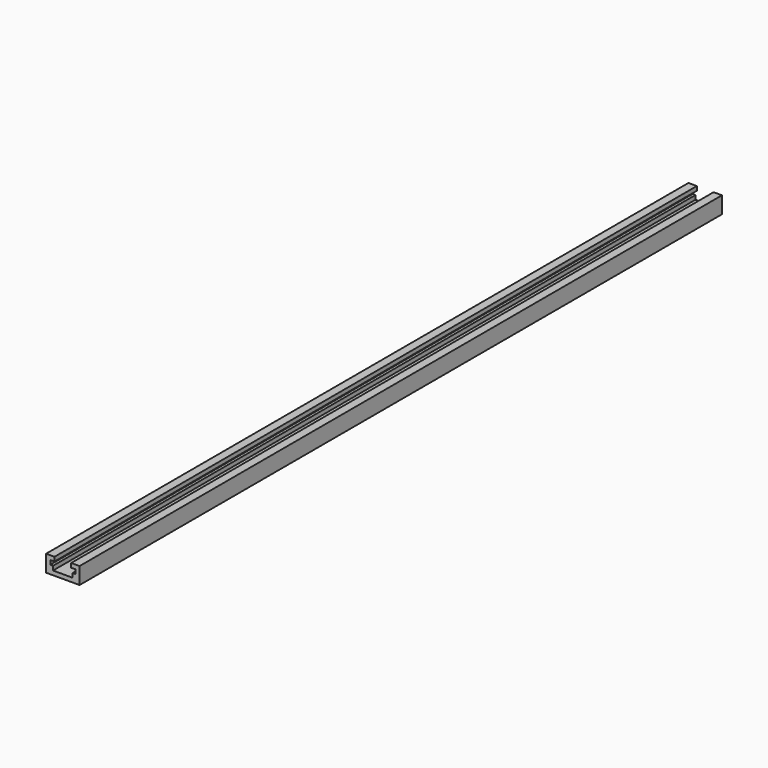
from build123d import *

# Parameters (mm, degrees)
F1_DEPTH = 228.6


with BuildPart() as f1:
    # F0 (on Front) → F1 (new body, symmetric)
    with BuildSketch(Plane.XZ):
        Polygon((-4.7625, 7.14375), (-4.7625, 9.525), (-9.525, 9.525), (-9.525, 0), (9.525, 0), (9.525, 9.525), (4.7625, 9.525), (4.7625, 7.14375), (7.14375, 7.14375), (7.14375, 4.7625), (5.55625, 4.7625), (5.55625, 2.38125), (-5.55625, 2.38125), (-5.55625, 4.7625), (-7.14375, 4.7625), (-7.14375, 7.14375), align=None)
    extrude(amount=F1_DEPTH, both=True)


solid = f1.part
